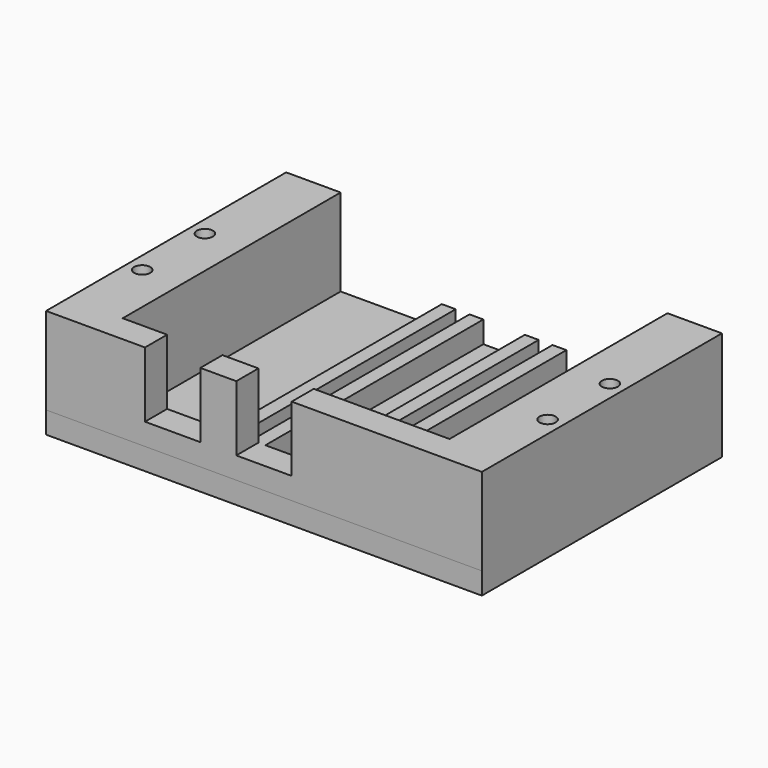
from build123d import *

# Parameters (mm, degrees)
F0_W     = 100
F0_H     = 68.861463
F1_DEPTH = 5
F2_W     = 3.175
F2_H     = 68.861463
F3_DEPTH = 5
F4_W     = 12.5
F4_H     = 62.511463
F4_H_2   = 6.35
F4_W_2   = 75
F5_DEPTH = 20
F6_R     = 1.85
F7_DEPTH = 25.001
F8_W     = 12.7
F8_H     = 15
F9_DEPTH = 12.7


with BuildPart() as f1:
    # F0 (on Top) → F1 (new body)
    with BuildSketch(Plane.XY):
        with Locations((5.092296, -16.324246)):
            Rectangle(F0_W, F0_H)
    extrude(amount=-F1_DEPTH)

    # F2 (on face) → F3 (join)
    with BuildSketch(Plane.XY):
        with Locations((-7.594134, -16.324246)):
            Rectangle(F2_W, F2_H)
        with Locations((-1.244134, -16.324246)):
            Rectangle(F2_W, F2_H)
        with Locations((11.455866, -16.324246)):
            Rectangle(F2_W, F2_H)
        with Locations((17.805866, -16.324246)):
            Rectangle(F2_W, F2_H)
    extrude(amount=F3_DEPTH)

    # F4 (on face) → F5 (join)
    with BuildSketch(Plane.XY):
        with Locations((-38.657704, -13.149247)):
            Rectangle(F4_W, F4_H)
        with Locations((-38.657704, -47.579978)):
            Rectangle(F4_W, F4_H_2)
        with Locations((5.092296, -47.579978)):
            Rectangle(F4_W_2, F4_H_2)
        with Locations((48.842296, -47.579978)):
            Rectangle(F4_W, F4_H_2)
        with Locations((48.842296, -13.149247)):
            Rectangle(F4_W, F4_H)
    extrude(amount=F5_DEPTH)

    # F6 (on face) → F7 (cut, through all)
    with BuildSketch(Plane(origin=(0, 0, -5), x_dir=(1, 0, 0), z_dir=(0, 0, -1))):
        with Locations((-41.387634, 27.575926)):
            Circle(F6_R)
        with Locations((51.599746, 27.514396)):
            Circle(F6_R)
        with Locations((-41.413683, 9.564399)):
            Circle(F6_R)
        with Locations((51.624972, 9.70294)):
            Circle(F6_R)
    extrude(amount=-F7_DEPTH, mode=Mode.SUBTRACT)

    # F8 (on face) → F9 (cut)
    with BuildSketch(Plane.XZ.offset(50.754978)):
        Polygon((-1.257704, 5), (5.092296, 5), (11.442296, 5), (11.442296, 20), (-1.257704, 20), align=None)
        with Locations((-15.862704, 12.5)):
            Rectangle(F8_W, F8_H)
    extrude(amount=-F9_DEPTH, mode=Mode.SUBTRACT)


solid = f1.part
